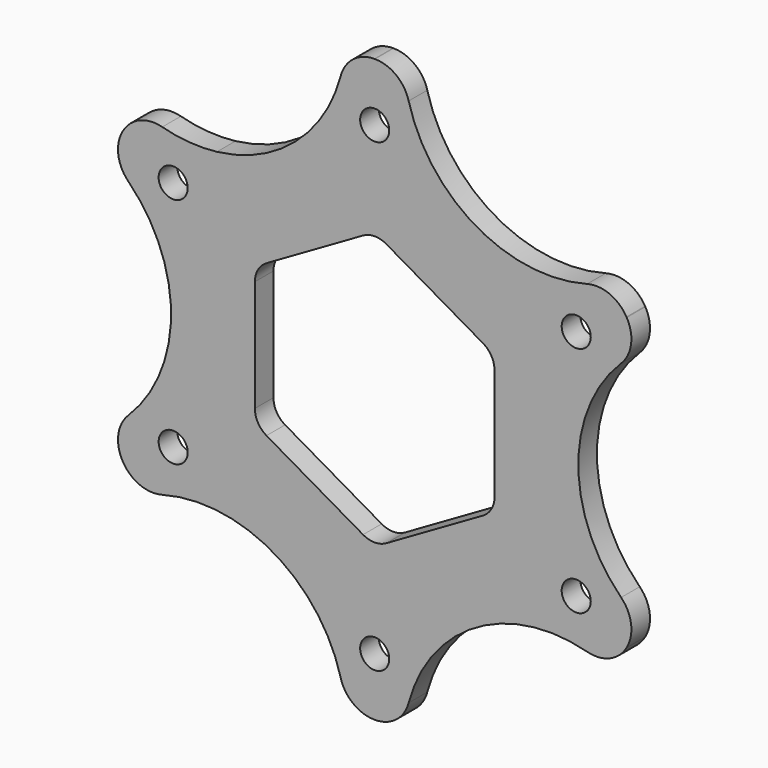
from build123d import *

# Parameters (mm, degrees)
F0_R     = 25
F1_DEPTH = 2
F3_DEPTH = 2.001
F4_R     = 1.25
F5_DEPTH = 2.001
F6_R     = 12.5
F7_DEPTH = 2.001
F8_R     = 3


with BuildPart() as f1:
    # F0 (on Front) → F1 (new body)
    with BuildSketch(Plane.XZ):
        Circle(F0_R)
    extrude(amount=F1_DEPTH)

    # F2 (on face) → F3 (cut, through all)
    with BuildSketch(Plane.XZ.offset(2)):
        with BuildLine():
            Line((-1, 11.3160652761), (-9.3, 6.5240580418))
            ThreePointArc((-9.3, 6.5240580418), (-10.0320508076, 5.7920072343), (-10.3, 4.7920072343))
            Line((-10.3, 4.7920072343), (-10.3, -4.7920072343))
            ThreePointArc((-10.3, -4.7920072343), (-10.0320508076, -5.7920072343), (-9.3, -6.5240580418))
            Line((-9.3, -6.5240580418), (-1, -11.3160652761))
            ThreePointArc((-1, -11.3160652761), (0, -11.5840144685), (1, -11.3160652761))
            Line((1, -11.3160652761), (9.3, -6.5240580418))
            ThreePointArc((9.3, -6.5240580418), (10.0320508076, -5.7920072343), (10.3, -4.7920072343))
            Line((10.3, -4.7920072343), (10.3, 0.3542550839))
            Line((10.3, 0.3542550839), (0, 0.3542550839))
            Line((0, 0.3542550839), (0, 11.5840144685))
            ThreePointArc((0, 11.5840144685), (-0.5176380902, 11.5158661211), (-1, 11.3160652761))
        make_face()
        with BuildLine():
            ThreePointArc((1, 11.3160652761), (0.5176380902, 11.5158661211), (0, 11.5840144685))
            Line((0, 11.5840144685), (0, 0.3542550839))
            Line((0, 0.3542550839), (10.3, 0.3542550839))
            Line((10.3, 0.3542550839), (10.3, 4.7920072343))
            ThreePointArc((10.3, 4.7920072343), (10.0320508076, 5.7920072343), (9.3, 6.5240580418))
            Line((9.3, 6.5240580418), (1, 11.3160652761))
        make_face()
    extrude(amount=-F3_DEPTH, mode=Mode.SUBTRACT)

    # F4 (on face) → F5 (cut, through all)
    with BuildSketch(Plane.XZ.offset(2)):
        with Locations((0, 20)):
            Circle(F4_R)
        with Locations((-17.3205080757, 10)):
            Circle(F4_R)
        with Locations((-17.3205080757, -10)):
            Circle(F4_R)
        with Locations((0, -20)):
            Circle(F4_R)
        with Locations((17.3205080757, -10)):
            Circle(F4_R)
        with Locations((17.3205080757, 10)):
            Circle(F4_R)
    extrude(amount=-F5_DEPTH, mode=Mode.SUBTRACT)

    # F6 (on face) → F7 (cut, through all)
    with BuildSketch(Plane.XZ.offset(2)):
        with BuildLine():
            ThreePointArc((17.5, 0), (30, -12.5), (42.5, 0))
            ThreePointArc((42.5, 0), (30, 12.5), (17.5, 0))
        make_face()
        with BuildLine():
            ThreePointArc((-27.4171924337, 27.4171924337), (-23.8388347648, 17.1419273487), (-13.5635696798, 13.5635696798))
            Line((-13.5635696798, 13.5635696798), (-27.4171924337, 27.4171924337))
        make_face()
        with BuildLine():
            Line((-27.4171924337, 27.4171924337), (-13.5635696798, 13.5635696798))
            ThreePointArc((-13.5635696798, 13.5635696798), (-5.6671178353, 17.6652759282), (-2.5, 25.9807621135))
            ThreePointArc((-2.5, 25.9807621135), (-14.2805924038, 38.4600430508), (-27.4171924337, 27.4171924337))
        make_face()
        with Locations((15, 25.9807621135)):
            Circle(F6_R)
        with Locations((-30, 0)):
            Circle(F6_R)
        with Locations((-15, -25.9807621135)):
            Circle(F6_R)
        with Locations((15, -25.9807621135)):
            Circle(F6_R)
    extrude(amount=-F7_DEPTH, mode=Mode.SUBTRACT)

    # F8
    f8_edges = [f1.edges().sort_by_distance(p)[0] for p in [
        (22.8125, -1, 10.226918),
        (22.8125, -1, -10.226918),
        (20.26302, -1, 14.642746),
        (2.54948, -1, 24.869663),
        (20.26302, -1, -14.642746),
        (2.54948, -1, -24.869663),
        (-2.54948, -1, -24.869663),
        (-20.26302, -1, -14.642746),
        (-22.8125, -1, -10.226918),
        (-22.8125, -1, 10.226918),
        (-20.26302, -1, 14.642746),
        (-2.54948, -1, 24.869663),
    ]]
    fillet(f8_edges, radius=F8_R)


solid = f1.part
